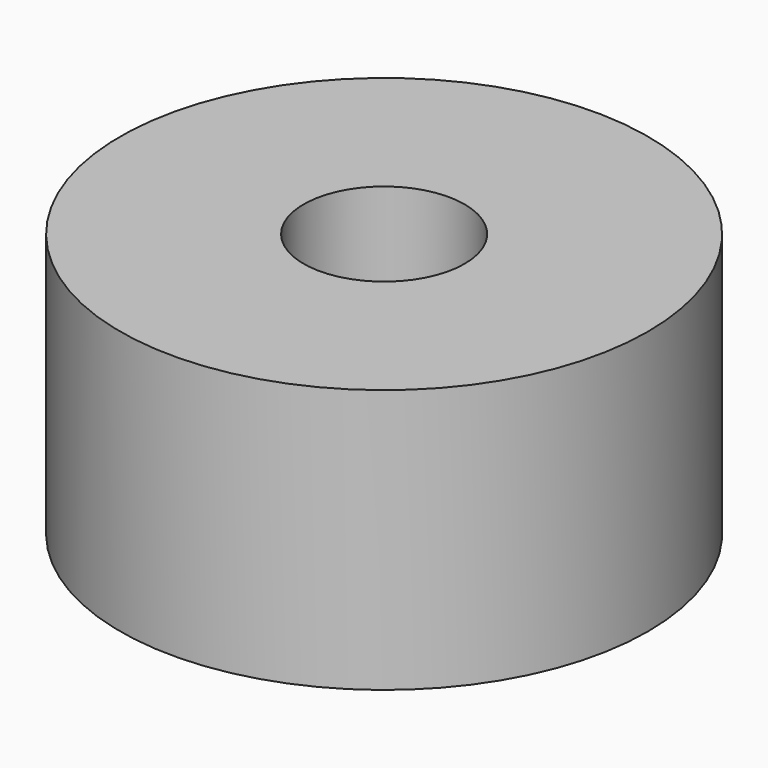
from build123d import *

# Parameters (mm, degrees)
CYLINDER003_R     = 0.61
CYLINDER003_DEPTH = 10
CYLINDER006_R     = 2
CYLINDER006_DEPTH = 2


with BuildPart() as cylinder003:
    # Cylinder003 → Cylinder003 (new body)
    with BuildSketch(Plane.XY):
        Circle(CYLINDER003_R)
    extrude(amount=CYLINDER003_DEPTH)


with BuildPart() as coilfront:
    # Cylinder006 → Cylinder006 (new body)
    with BuildSketch(Plane.XY.offset(1)):
        Circle(CYLINDER006_R)
    extrude(amount=CYLINDER006_DEPTH)

    # Cut006: cut Cylinder003
    add(cylinder003.part, mode=Mode.SUBTRACT)


solid = coilfront.part
